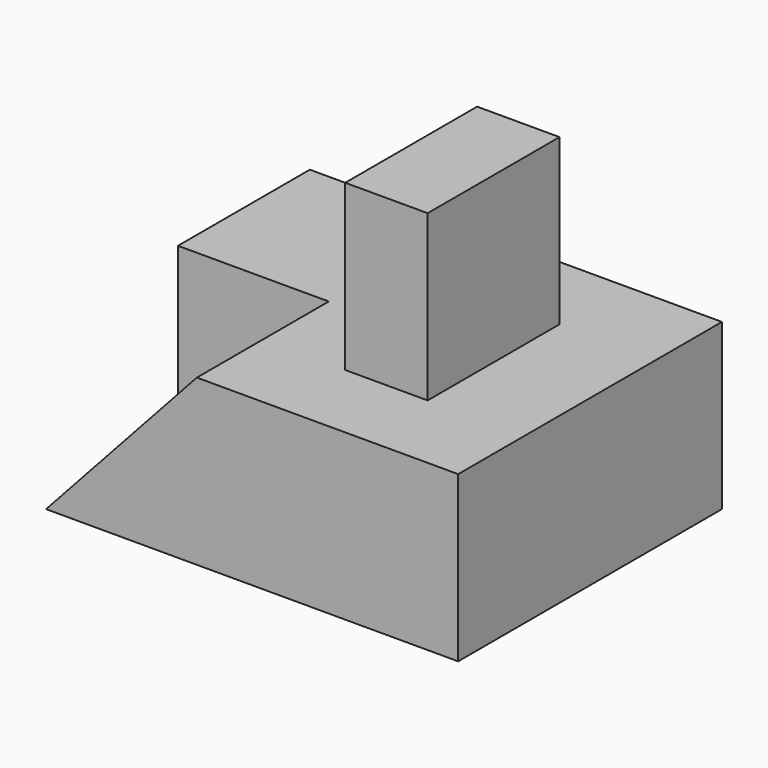
from build123d import *

# Parameters (mm, degrees)
F1_DEPTH = 40
F3_DEPTH = 20
F4_W     = 10
F4_H     = 20
F5_DEPTH = 20


with BuildPart() as f1:
    # F0 (on Front) → F1 (new body)
    with BuildSketch(Plane.XZ):
        Polygon((31.704547, 10.600731), (1.704547, 10.600731), (-18.295453, 10.600731), (-18.295453, -9.399269), (31.704547, -9.399269), align=None)
    extrude(amount=F1_DEPTH)

    # F2 (on face) → F3 (cut)
    with BuildSketch(Plane.XZ.offset(40)):
        Polygon((-18.295453, 10.600731), (-18.295453, -9.399269), (0, 10.600731), align=None)
    extrude(amount=-F3_DEPTH, mode=Mode.SUBTRACT)

    # F4 (on face) → F5 (join)
    with BuildSketch(Plane.XY.offset(10.600731)):
        with Locations((15, -20)):
            Rectangle(F4_W, F4_H)
    extrude(amount=F5_DEPTH)


solid = f1.part
